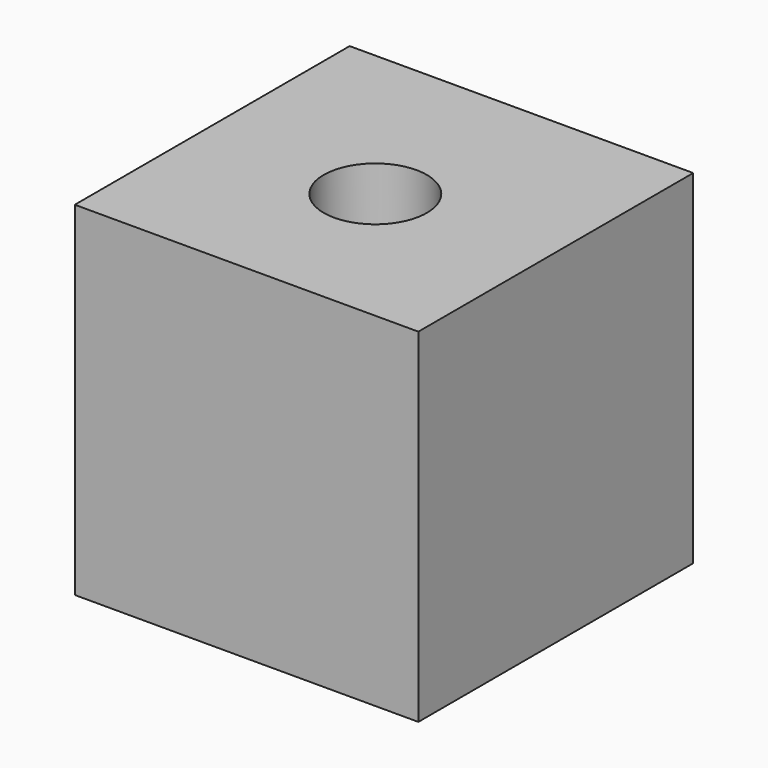
from build123d import *

# Parameters (mm, degrees)
F0_W     = 150
F0_H     = 150
F1_DEPTH = 150
F3_D     = 45
F3_DEPTH = 58
F3_TIP   = 13.5193639281


with BuildPart() as f1:
    # F0 (on Front) → F1 (new body)
    with BuildSketch(Plane.XZ):
        Rectangle(F0_W, F0_H)
    extrude(amount=F1_DEPTH)

    # F3
    with Locations(Plane.XY.offset(75)):
        with Locations((0, -79.7429457307)):
            Hole(F3_D / 2, depth=F3_DEPTH)
            with Locations((0, 0, -(F3_DEPTH + F3_TIP / 2))):  # 118° drill point
                Cone(0, F3_D / 2, F3_TIP, mode=Mode.SUBTRACT)


solid = f1.part
